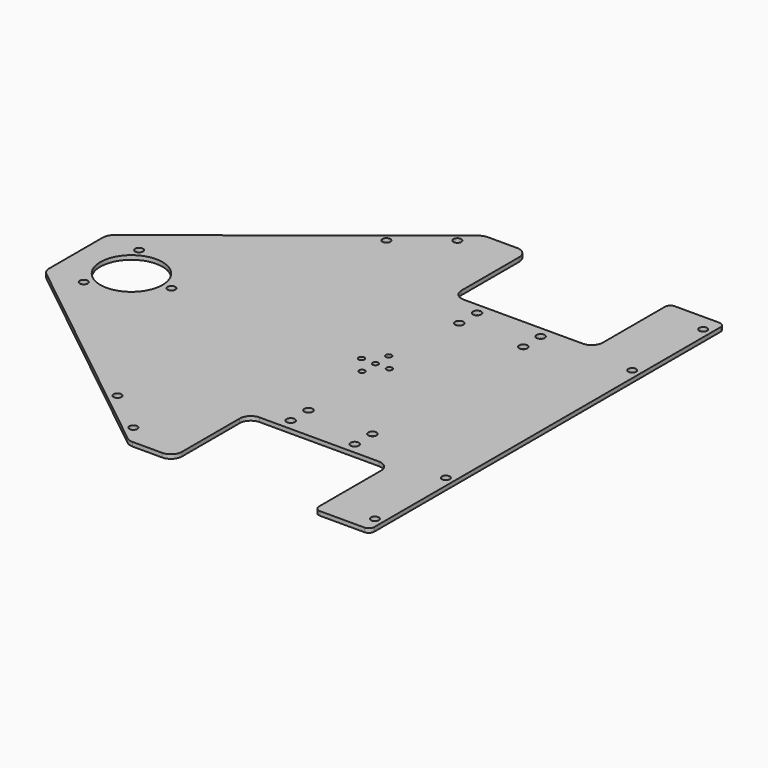
from build123d import *

# Parameters (mm, degrees)
SKETCH_R        = 2.3622
SKETCH_R_2      = 17.78
PAD_DEPTH       = 2.3622
FILLET_R        = 6.35
FILLET001_R     = 6.35
FILLET002_R     = 6.35
FILLET003_R     = 6.35
FILLET004_R     = 6.35
FILLET005_R     = 3.175
FILLET006_R     = 3.175
FILLET007_R     = 6.35
FILLET008_R     = 6.35
FILLET009_R     = 6.35
FILLET010_R     = 6.35
FILLET011_R     = 6.35
FILLET012_R     = 3.175
FILLET013_R     = 3.175
SKETCH001_R     = 1.651
POCKET_DEPTH    = 2.3632
SKETCH002_R     = 2.2479
POCKET001_DEPTH = 2.3632
SKETCH003_R     = 2.2479
POCKET002_DEPTH = 4.99999


with BuildPart() as part:
    # Sketch (on DatumPlane) → Pad (new body)
    with BuildSketch(Plane.XY.offset(43.6758)):
        Polygon((40.4368, 73.025), (-40.4368, 73.025), (-40.4368, 127), (-65.8368, 127), (-197.6882, 22.225), (-197.6882, -22.225), (-65.8368, -127), (-40.4368, -127), (-40.4368, -73.025), (40.4368, -73.025), (40.4368, -127), (72.1868, -127), (72.1868, 127), (40.4368, 127), align=None)
        with Locations((-21.3868, 66.675)):
            Circle(SKETCH_R, mode=Mode.SUBTRACT)
        with Locations((-21.3868, 53.975)):
            Circle(SKETCH_R, mode=Mode.SUBTRACT)
        with Locations((-21.3868, -53.975)):
            Circle(SKETCH_R, mode=Mode.SUBTRACT)
        with Locations((-21.3868, -66.675)):
            Circle(SKETCH_R, mode=Mode.SUBTRACT)
        with Locations((15.0368, 66.675)):
            Circle(SKETCH_R, mode=Mode.SUBTRACT)
        with Locations((15.24, 53.975)):
            Circle(SKETCH_R, mode=Mode.SUBTRACT)
        with Locations((15.24, -53.975)):
            Circle(SKETCH_R, mode=Mode.SUBTRACT)
        with Locations((15.24, -66.675)):
            Circle(SKETCH_R, mode=Mode.SUBTRACT)
        with Locations((-165.9382, 0)):
            Circle(SKETCH_R_2, mode=Mode.SUBTRACT)
    extrude(amount=PAD_DEPTH)

    # Fillet
    fillet_edges = [part.edges().sort_by_distance(p)[0] for p in [
        (-197.6882, -22.225, 44.8569),
    ]]
    fillet(fillet_edges, radius=FILLET_R)

    # Fillet001
    fillet001_edges = [part.edges().sort_by_distance(p)[0] for p in [
        (-65.8368, -127, 44.8569),
    ]]
    fillet(fillet001_edges, radius=FILLET001_R)

    # Fillet002
    fillet002_edges = [part.edges().sort_by_distance(p)[0] for p in [
        (-40.4368, -127, 44.8569),
    ]]
    fillet(fillet002_edges, radius=FILLET002_R)

    # Fillet003
    fillet003_edges = [part.edges().sort_by_distance(p)[0] for p in [
        (-40.4368, -73.025, 44.8569),
    ]]
    fillet(fillet003_edges, radius=FILLET003_R)

    # Fillet004
    fillet004_edges = [part.edges().sort_by_distance(p)[0] for p in [
        (40.4368, -73.025, 44.8569),
    ]]
    fillet(fillet004_edges, radius=FILLET004_R)

    # Fillet005
    fillet005_edges = [part.edges().sort_by_distance(p)[0] for p in [
        (40.4368, -127, 44.8569),
    ]]
    fillet(fillet005_edges, radius=FILLET005_R)

    # Fillet006
    fillet006_edges = [part.edges().sort_by_distance(p)[0] for p in [
        (72.1868, -127, 44.8569),
    ]]
    fillet(fillet006_edges, radius=FILLET006_R)

    # Fillet007
    fillet007_edges = [part.edges().sort_by_distance(p)[0] for p in [
        (-197.6882, 22.225, 44.8569),
    ]]
    fillet(fillet007_edges, radius=FILLET007_R)

    # Fillet008
    fillet008_edges = [part.edges().sort_by_distance(p)[0] for p in [
        (-65.8368, 127, 44.8569),
    ]]
    fillet(fillet008_edges, radius=FILLET008_R)

    # Fillet009
    fillet009_edges = [part.edges().sort_by_distance(p)[0] for p in [
        (-40.4368, 127, 44.8569),
    ]]
    fillet(fillet009_edges, radius=FILLET009_R)

    # Fillet010
    fillet010_edges = [part.edges().sort_by_distance(p)[0] for p in [
        (40.4368, 73.025, 44.8569),
    ]]
    fillet(fillet010_edges, radius=FILLET010_R)

    # Fillet011
    fillet011_edges = [part.edges().sort_by_distance(p)[0] for p in [
        (-40.4368, 73.025, 44.8569),
    ]]
    fillet(fillet011_edges, radius=FILLET011_R)

    # Fillet012
    fillet012_edges = [part.edges().sort_by_distance(p)[0] for p in [
        (40.4368, 127, 44.8569),
    ]]
    fillet(fillet012_edges, radius=FILLET012_R)

    # Fillet013
    fillet013_edges = [part.edges().sort_by_distance(p)[0] for p in [
        (72.1868, 127, 44.8569),
    ]]
    fillet(fillet013_edges, radius=FILLET013_R)

    # Sketch001 (on Face39 of Fillet013) → Pocket (cut, through all)
    with BuildSketch(Plane.XY.offset(46.038)):
        with Locations((-26.2382, 0)):
            Circle(SKETCH001_R)
        with Locations((-34.2011, 0)):
            Circle(SKETCH001_R)
        with Locations((-26.2382, 9.525)):
            Circle(SKETCH001_R)
        with Locations((-18.2753, 0)):
            Circle(SKETCH001_R)
        with Locations((-26.2382, -9.525)):
            Circle(SKETCH001_R)
    extrude(amount=-POCKET_DEPTH, mode=Mode.SUBTRACT)

    # Sketch002 (on Face44 of Pocket) → Pocket001 (cut, through all)
    with BuildSketch(Plane.XY.offset(46.038)):
        with Locations((-96.923253, -96.214243)):
            Circle(SKETCH002_R)
        with Locations((-72.065864, -115.967033)):
            Circle(SKETCH002_R)
        with Locations((-72.065864, 115.967033)):
            Circle(SKETCH002_R)
        with Locations((-96.923253, 96.214243)):
            Circle(SKETCH002_R)
    extrude(amount=-POCKET001_DEPTH, mode=Mode.SUBTRACT)

    # Sketch003 (on Face48 of Pocket001) → Pocket002 (cut)
    with BuildSketch(Plane.XY.offset(46.038)):
        with Locations((67.4243, -117.475)):
            Circle(SKETCH003_R)
        with Locations((67.4243, -66.675)):
            Circle(SKETCH003_R)
        with Locations((67.4243, 117.475)):
            Circle(SKETCH003_R)
        with Locations((67.4243, 66.675)):
            Circle(SKETCH003_R)
        with Locations((-177.3809, 19.819338)):
            Circle(SKETCH003_R)
        with Locations((-177.3809, -19.819338)):
            Circle(SKETCH003_R)
        with Locations((-143.0528, 0)):
            Circle(SKETCH003_R)
    extrude(amount=-POCKET002_DEPTH, mode=Mode.SUBTRACT)


solid = part.part
